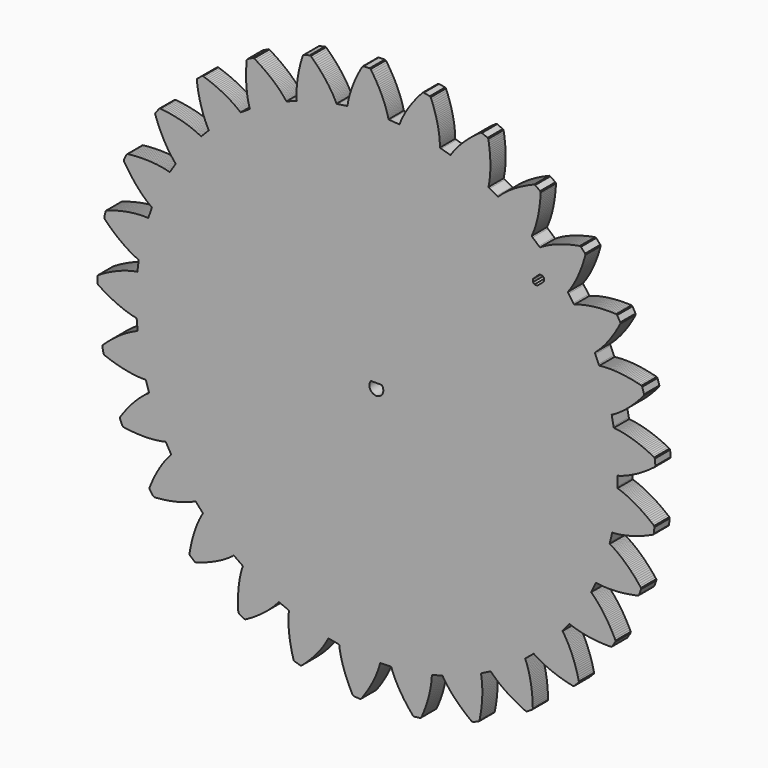
from build123d import *

# Parameters (mm, degrees)
F2_DEPTH = 7
F3_DEPTH = 7
F4_W     = 11.145629
F4_H     = 26.480744
F4_W_2   = 8.458026
F4_H_2   = 7.430415
F4_W_3   = 4.58473
F4_H_3   = 6.244713
F4_R     = 3.424511
F4_W_4   = 11.490009
F4_H_4   = 12.832992
F4_W_5   = 8.207142
F4_H_5   = 9.848576
F5_DEPTH = 7


with BuildPart() as f2:
    # F0 (on Front) → F2 (new body)
    with BuildSketch(Plane.XZ):
        Polygon((88.415724, -3.131388), (88.468302, -0.076276), (88.499544, 0.430962), (88.765482, 0.50386), (89.042596, 0.583616), (89.329362, 0.670484), (89.628574, 0.76421), (89.937184, 0.864794), (90.256716, 0.97376), (90.5859, 1.089584), (90.92626, 1.214806), (91.276272, 1.34841), (91.63619, 1.490396), (92.005506, 1.642034), (92.384474, 1.8018), (92.773094, 1.971472), (93.171366, 2.151812), (93.577766, 2.340788), (93.992802, 2.541956), (94.416982, 2.751506), (94.849544, 2.973502), (95.290488, 3.204896), (95.740068, 3.448482), (96.197522, 3.703752), (96.661834, 3.96969), (97.133258, 4.248074), (97.612556, 4.53738), (98.098966, 4.840656), (98.591218, 5.156124), (99.091344, 5.484038), (99.597058, 5.824652), (100.10836, 6.177204), (100.626266, 6.54525), (101.150268, 6.925488), (101.67808, 7.319696), (102.21148, 7.727366), (102.36134, 8.11878), (102.155854, 10.36668), (101.93843, 10.724566), (101.33899, 11.029112), (100.747678, 11.321466), (100.165002, 11.601374), (99.58893, 11.868328), (99.022256, 12.123344), (98.463202, 12.366168), (97.911768, 12.598832), (97.37024, 12.819304), (96.83811, 13.0286), (96.313346, 13.227228), (95.79925, 13.41595), (95.294806, 13.59375), (94.798744, 13.762152), (94.313604, 13.919124), (93.836846, 14.067968), (93.37101, 14.206906), (92.91635, 14.336446), (92.471088, 14.457858), (92.037256, 14.570888), (91.612822, 14.675282), (91.200834, 14.77358), (90.798244, 14.861718), (90.408354, 14.944268), (90.027862, 15.01869), (89.659816, 15.086), (89.3032, 15.146706), (88.957252, 15.202078), (88.62375, 15.251608), (88.301424, 15.29428), (87.99129, 15.332888), (87.692078, 15.365908), (87.405566, 15.393594), (87.131246, 15.418232), (87.008818, 15.9115), (86.40379, 18.90616), (86.32505, 19.40908), (86.569144, 19.53735), (86.822382, 19.675018), (87.08451, 19.821068), (87.355782, 19.977024), (87.63569, 20.140854), (87.92398, 20.31586), (88.22116, 20.500518), (88.52596, 20.696352), (88.838634, 20.901584), (89.15969, 21.117738), (89.489128, 21.345322), (89.8239, 21.583574), (90.167308, 21.833002), (90.517066, 22.093606), (90.87419, 22.366402), (91.236394, 22.650374), (91.60571, 22.948062), (91.980868, 23.256672), (92.361106, 23.577728), (92.748202, 23.9125), (93.139616, 24.258194), (93.535094, 24.619382), (93.93743, 24.993016), (94.34256, 25.378588), (94.752008, 25.778384), (95.165266, 26.191896), (95.582588, 26.620394), (96.004482, 27.061338), (96.427646, 27.517522), (96.854874, 27.987422), (97.283372, 28.471038), (97.71441, 28.969894), (98.14748, 29.482466), (98.21098, 29.897502), (97.527212, 32.048628), (97.236382, 32.35038), (96.585888, 32.519544), (95.946824, 32.677024), (95.316904, 32.824344), (94.69689, 32.962012), (94.087544, 33.090282), (93.489628, 33.20763), (92.902634, 33.314818), (92.325038, 33.414132), (91.760396, 33.50481), (91.206168, 33.586344), (90.663116, 33.659496), (90.13124, 33.724266), (89.61181, 33.782178), (89.103302, 33.831708), (88.60724, 33.87438), (88.1221, 33.910194), (87.649406, 33.93915), (87.189412, 33.962518), (86.739832, 33.979028), (86.30473, 33.98995), (85.880296, 33.995538), (85.468308, 33.997062), (85.068512, 33.992744), (84.682432, 33.983346), (84.307782, 33.9709), (83.946594, 33.95439), (83.596582, 33.933562), (83.26054, 33.910194), (82.93669, 33.882762), (82.625032, 33.853806), (82.326074, 33.820532), (82.040832, 33.787512), (81.767782, 33.751952), (81.54223, 34.206612), (80.306012, 37.001374), (80.122624, 37.475084), (80.332174, 37.652884), (80.549852, 37.841606), (80.774388, 38.041504), (81.005782, 38.251054), (81.244288, 38.472796), (81.488128, 38.705968), (81.73908, 38.949808), (81.995366, 39.206094), (82.25724, 39.473302), (82.523178, 39.75448), (82.795974, 40.04658), (83.071818, 40.35138), (83.354012, 40.668118), (83.639508, 40.99908), (83.92856, 41.34198), (84.222184, 41.69758), (84.518602, 42.066896), (84.819084, 42.448658), (85.120582, 42.845406), (85.426652, 43.2546), (85.734246, 43.67751), (86.043872, 44.114644), (86.35553, 44.56524), (86.668458, 45.029552), (86.982656, 45.507834), (87.298124, 46.001102), (87.613846, 46.50834), (87.92906, 47.03031), (88.244782, 47.565234), (88.56025, 48.11616), (88.875972, 48.68131), (89.189916, 49.261446), (89.502844, 49.855552), (89.473888, 50.273128), (88.344096, 52.22715), (87.996878, 52.460068), (87.325556, 52.484706), (86.66541, 52.50274), (86.019234, 52.510868), (85.38525, 52.512138), (84.762696, 52.505534), (84.15335, 52.491818), (83.555434, 52.47099), (82.97098, 52.443558), (82.400496, 52.410284), (81.840934, 52.370406), (81.295088, 52.32494), (80.762196, 52.27414), (80.240988, 52.218768), (79.734004, 52.158062), (79.240482, 52.093546), (78.75966, 52.024712), (78.291284, 51.951306), (77.836624, 51.874344), (77.39568, 51.794334), (76.966928, 51.711784), (76.550622, 51.62644), (76.14981, 51.538302), (75.759666, 51.44864), (75.383746, 51.356184), (75.021034, 51.263728), (74.671022, 51.168732), (74.33498, 51.073482), (74.01113, 50.97874), (73.700996, 50.881966), (73.403308, 50.787224), (73.11959, 50.691974), (72.84654, 50.596978), (72.58746, 50.503252), (72.269452, 50.89873), (70.462496, 53.3638), (70.180302, 53.787218), (70.346672, 54.006166), (70.519138, 54.23629), (70.696938, 54.47886), (70.877278, 54.733622), (71.06219, 55.001084), (71.250912, 55.280738), (71.442428, 55.572838), (71.636738, 55.878908), (71.835112, 56.197424), (72.034756, 56.527878), (72.238972, 56.871032), (72.442934, 57.229172), (72.64969, 57.598488), (72.857716, 57.983044), (73.067012, 58.380046), (73.276562, 58.79051), (73.487382, 59.214944), (73.696678, 59.653602), (73.907752, 60.105468), (74.118572, 60.56978), (74.327868, 61.049332), (74.535894, 61.5426), (74.744174, 62.049584), (74.949406, 62.570538), (75.153368, 63.105462), (75.35479, 63.655118), (75.554434, 64.218744), (75.751538, 64.79634), (75.944578, 65.387144), (76.134824, 65.992172), (76.320752, 66.61244), (76.502616, 67.2449), (76.680162, 67.894124), (76.563068, 68.29519), (75.039068, 69.960922), (74.649178, 70.11256), (73.987762, 69.994196), (73.341332, 69.868974), (72.707602, 69.737656), (72.087334, 69.602782), (71.480782, 69.462066), (70.8882, 69.31754), (70.309588, 69.168696), (69.744438, 69.017058), (69.194782, 68.861356), (68.657318, 68.70286), (68.133824, 68.5403), (67.624046, 68.376216), (67.12773, 68.210862), (66.645384, 68.042968), (66.177008, 67.873296), (65.722094, 67.701084), (65.28115, 67.530396), (64.852652, 67.356406), (64.43914, 67.184194), (64.038328, 67.010712), (63.650978, 66.8385), (63.277344, 66.666034), (62.91641, 66.493822), (62.568938, 66.324404), (62.234166, 66.154732), (61.91311, 65.988362), (61.606024, 65.822754), (61.309606, 65.660194), (61.027158, 65.498904), (60.757156, 65.341932), (60.499346, 65.1875), (60.253982, 65.037132), (60.021318, 64.889812), (59.62584, 65.208328), (57.331204, 67.225596), (56.964682, 67.578402), (57.080506, 67.8291), (57.199124, 68.090974), (57.319012, 68.366818), (57.44144, 68.65333), (57.564122, 68.955082), (57.688328, 69.267756), (57.81228, 69.595924), (57.937756, 69.93476), (58.062978, 70.28909), (58.187184, 70.654088), (58.310882, 71.03458), (58.433818, 71.427518), (58.556246, 71.833918), (58.676134, 72.25251), (58.796022, 72.68558), (58.911846, 73.132112), (59.026146, 73.590582), (59.137906, 74.0648), (59.246618, 74.55121), (59.351266, 75.050066), (59.453374, 75.564162), (59.551418, 76.09045), (59.64489, 76.629438), (59.734552, 77.183412), (59.81888, 77.749578), (59.897112, 78.328444), (59.97001, 78.92255), (60.037828, 79.527324), (60.09955, 80.147338), (60.154922, 80.778528), (60.204452, 81.424704), (60.245854, 82.08231), (60.280144, 82.753378), (60.07923, 83.1199), (58.232396, 84.419618), (57.819138, 84.484134), (57.199124, 84.225308), (56.594096, 83.964704), (56.002784, 83.70029), (55.426712, 83.435622), (54.86461, 83.16816), (54.317494, 82.899428), (53.784094, 82.629172), (53.265934, 82.359424), (52.760474, 82.089168), (52.269746, 81.819166), (51.794258, 81.54764), (51.331216, 81.278654), (50.882144, 81.008906), (50.448058, 80.741444), (50.026418, 80.475506), (49.618494, 80.210838), (49.225556, 79.947694), (48.843794, 79.687344), (48.477272, 79.429534), (48.123196, 79.173502), (47.781312, 78.92255), (47.453652, 78.673122), (47.13793, 78.427758), (46.836178, 78.186712), (46.545602, 77.951), (46.268234, 77.718082), (46.00255, 77.490752), (45.748804, 77.267232), (45.507758, 77.049808), (45.277634, 76.838734), (45.059956, 76.631978), (44.85193, 76.432334), (44.656096, 76.238024), (44.201182, 76.464084), (41.526562, 77.941094), (41.09273, 78.207032), (41.151912, 78.476018), (41.21211, 78.758466), (41.270022, 79.05336), (41.326918, 79.3607), (41.381782, 79.680232), (41.43563, 80.013734), (41.487954, 80.359682), (41.53596, 80.717822), (41.58295, 81.089932), (41.625622, 81.474488), (41.664484, 81.87149), (41.700044, 82.281954), (41.733318, 82.705118), (41.76075, 83.140728), (41.783102, 83.58853), (41.800628, 84.050302), (41.814344, 84.522996), (41.821456, 85.009406), (41.82298, 85.506738), (41.818662, 86.01804), (41.80774, 86.54001), (41.789706, 87.076458), (41.765068, 87.623574), (41.733318, 88.182882), (41.69344, 88.753366), (41.64518, 89.337566), (41.590062, 89.931672), (41.525038, 90.537716), (41.45341, 91.15646), (41.37086, 91.78511), (41.279928, 92.425952), (41.179344, 93.077716), (41.069108, 93.740656), (40.793518, 94.056124), (38.71148, 94.92709), (38.29365, 94.901944), (37.74374, 94.515102), (37.209324, 94.130546), (36.688116, 93.74599), (36.182656, 93.362958), (35.690658, 92.981196), (35.213646, 92.600704), (34.750858, 92.22326), (34.302802, 91.848356), (33.867446, 91.47523), (33.44733, 91.10566), (33.039152, 90.739138), (32.646468, 90.375156), (32.26623, 90.017016), (31.898184, 89.661416), (31.544108, 89.311404), (31.203494, 88.963932), (30.875834, 88.62408), (30.560112, 88.28753), (30.25709, 87.956822), (29.96499, 87.631702), (29.686606, 87.311916), (29.419144, 86.997718), (29.164128, 86.690378), (28.920288, 86.39015), (28.687116, 86.09678), (28.466644, 85.80976), (28.256078, 85.53163), (28.05618, 85.258834), (27.867458, 84.995182), (27.688134, 84.73788), (27.518716, 84.489722), (27.360474, 84.249946), (27.21163, 84.018552), (26.716838, 84.141234), (23.787202, 85.009406), (23.30638, 85.17603), (23.307396, 85.451366), (23.304856, 85.739656), (23.297744, 86.039884), (23.288346, 86.351288), (23.273106, 86.676662), (23.253802, 87.012958), (23.230434, 87.362716), (23.199954, 87.723904), (23.16541, 88.096268), (23.125532, 88.480316), (23.078796, 88.877318), (23.025202, 89.285496), (22.965766, 89.705612), (22.898202, 90.137158), (22.82505, 90.579372), (22.7425, 91.034032), (22.654362, 91.498344), (22.556572, 91.975356), (22.4504, 92.461766), (22.3361, 92.959352), (22.213418, 93.467606), (22.081084, 93.98729), (21.939352, 94.516372), (21.78746, 95.055106), (21.626424, 95.605016), (21.454212, 96.164578), (21.272094, 96.733538), (21.079308, 97.311134), (20.875346, 97.899652), (20.660462, 98.496044), (20.432878, 99.102596), (20.194372, 99.717022), (19.943674, 100.340084), (19.607378, 100.589512), (17.387418, 100.993118), (16.983812, 100.877294), (16.530422, 100.382756), (16.090494, 99.890504), (15.66479, 99.404094), (15.254072, 98.920478), (14.8558, 98.44245), (14.471752, 97.969756), (14.100912, 97.50138), (13.743788, 97.038084), (13.399618, 96.58063), (13.067132, 96.12851), (12.749124, 95.683502), (12.441784, 95.243828), (12.14816, 94.811266), (11.865712, 94.385562), (11.595456, 93.966462), (11.33663, 93.555744), (11.089996, 93.152138), (10.85276, 92.75539), (10.628224, 92.366516), (10.41461, 91.987802), (10.210394, 91.615438), (10.017862, 91.25171), (9.83295, 90.89611), (9.660738, 90.551432), (9.496908, 90.213866), (9.341206, 89.886206), (9.196172, 89.56896), (9.060028, 89.26035), (8.931758, 88.961646), (8.812124, 88.671832), (8.70011, 88.393702), (8.596732, 88.125224), (8.500466, 87.86716), (7.991958, 87.88113), (4.943704, 88.098808), (4.43926, 88.15799), (4.380078, 88.426722), (4.315562, 88.7079), (4.24495, 89), (4.167988, 89.301752), (4.08366, 89.61595), (3.992728, 89.941324), (3.893668, 90.276096), (3.787496, 90.623568), (3.673196, 90.980184), (3.550768, 91.346706), (3.41945, 91.724658), (3.280512, 92.1115), (3.131668, 92.508502), (2.974696, 92.915156), (2.806294, 93.330954), (2.628494, 93.756912), (2.442566, 94.192522), (2.243938, 94.63626), (2.03769, 95.08965), (1.818234, 95.551168), (1.58811, 96.021068), (1.348334, 96.49935), (1.095096, 96.98576), (0.831952, 97.480552), (0.556108, 97.982202), (0.268072, 98.490456), (-0.03241, 99.007346), (-0.345084, 99.531094), (-0.670204, 100.061446), (-1.009294, 100.59764), (-1.360576, 101.140438), (-1.725828, 101.690602), (-2.10505, 102.244322), (-2.486812, 102.41501), (-4.742332, 102.33246), (-5.111648, 102.133832), (-5.447944, 101.55268), (-5.771794, 100.977878), (-6.081928, 100.410188), (-6.38114, 99.85088), (-6.666128, 99.297922), (-6.939178, 98.752584), (-7.200798, 98.214866), (-7.450226, 97.685784), (-7.688732, 97.1661), (-7.916062, 96.653528), (-8.1312, 96.149338), (-8.336432, 95.654546), (-8.530742, 95.169406), (-8.713876, 94.692902), (-8.888882, 94.225796), (-9.052966, 93.768088), (-9.207144, 93.321556), (-9.352178, 92.883406), (-9.488322, 92.456178), (-9.616592, 92.038602), (-9.73521, 91.630678), (-9.846716, 91.2352), (-9.94857, 90.849374), (-10.04382, 90.4732), (-10.132212, 90.109472), (-10.211968, 89.756666), (-10.28639, 89.414782), (-10.352684, 89.084074), (-10.412882, 88.764288), (-10.468254, 88.457202), (-10.517784, 88.160784), (-10.560456, 87.875796), (-10.599318, 87.602746), (-11.099444, 87.50775), (-14.122806, 87.065282), (-14.62852, 87.014228), (-14.744344, 87.26518), (-14.866772, 87.524006), (-14.999106, 87.794262), (-15.139822, 88.073916), (-15.288666, 88.361952), (-15.448432, 88.65964), (-15.616326, 88.96698), (-15.794126, 89.281178), (-15.983356, 89.605028), (-16.181476, 89.937006), (-16.391026, 90.277366), (-16.610228, 90.626108), (-16.840098, 90.981708), (-17.082922, 91.345182), (-17.335144, 91.716022), (-17.599812, 92.093974), (-17.876672, 92.478022), (-18.164454, 92.86969), (-18.46519, 93.267962), (-18.77761, 93.671568), (-19.102984, 94.080762), (-19.44055, 94.495544), (-19.791832, 94.917184), (-20.156068, 95.342888), (-20.533512, 95.77291), (-20.923148, 96.208774), (-21.328532, 96.648194), (-21.745854, 97.093202), (-22.1774, 97.541258), (-22.623932, 97.9916), (-23.083926, 98.44626), (-23.558144, 98.903968), (-24.047348, 99.364216), (-24.458066, 99.44956), (-26.642212, 98.883394), (-26.960728, 98.610344), (-27.16469, 97.969756), (-27.356206, 97.34009), (-27.537816, 96.718552), (-27.709012, 96.107682), (-27.868778, 95.505702), (-28.018892, 94.914644), (-28.158084, 94.334254), (-28.288894, 93.764024), (-28.408782, 93.204462), (-28.520796, 92.654552), (-28.62265, 92.117088), (-28.717646, 91.58953), (-28.80299, 91.07391), (-28.880206, 90.568196), (-28.94904, 90.074928), (-29.011016, 89.594106), (-29.066134, 89.122682), (-29.11287, 88.663958), (-29.154272, 88.217172), (-29.19034, 87.781816), (-29.217772, 87.358906), (-29.241394, 86.948188), (-29.25892, 86.548646), (-29.271366, 86.162566), (-29.278478, 85.787916), (-29.281272, 85.425458), (-29.279748, 85.076716), (-29.27416, 84.73915), (-29.264762, 84.41403), (-29.252316, 84.101102), (-29.235806, 83.802144), (-29.217772, 83.513854), (-29.197198, 83.239788), (-29.663034, 83.038874), (-32.520788, 81.956834), (-33.004912, 81.798338), (-33.171282, 82.01754), (-33.347812, 82.245124), (-33.533994, 82.480582), (-33.730844, 82.723152), (-33.93887, 82.97258), (-34.158072, 83.228866), (-34.389466, 83.49201), (-34.630766, 83.762012), (-34.884512, 84.037856), (-35.15045, 84.31878), (-35.42731, 84.606816), (-35.716616, 84.898916), (-36.018368, 85.198128), (-36.332566, 85.50115), (-36.65921, 85.80849), (-36.9983, 86.119894), (-37.351106, 86.436632), (-37.716104, 86.756672), (-38.095072, 87.080522), (-38.487756, 87.406912), (-38.89314, 87.737874), (-39.313256, 88.071122), (-39.746072, 88.405894), (-40.192604, 88.74346), (-40.654122, 89.084074), (-41.12961, 89.424434), (-41.61856, 89.767588), (-42.121734, 90.110488), (-42.639894, 90.455166), (-43.173294, 90.80086), (-43.72041, 91.145538), (-44.282512, 91.490216), (-44.858584, 91.83464), (-45.277684, 91.829306), (-47.289618, 90.806702), (-47.540316, 90.47193), (-47.602038, 89.803402), (-47.654616, 89.14605), (-47.698812, 88.501144), (-47.734372, 87.86716), (-47.760788, 87.245622), (-47.779838, 86.636784), (-47.792284, 86.03836), (-47.796348, 85.45416), (-47.793554, 84.880882), (-47.784156, 84.321574), (-47.768916, 83.773188), (-47.747072, 83.238518), (-47.719132, 82.716294), (-47.686366, 82.206262), (-47.649028, 81.70893), (-47.604832, 81.22506), (-47.557842, 80.75389), (-47.505772, 80.296182), (-47.450654, 79.849904), (-47.389948, 79.418612), (-47.327972, 78.997988), (-47.261932, 78.591588), (-47.192844, 78.198904), (-47.121216, 77.818666), (-47.048318, 77.452144), (-46.972372, 77.096544), (-46.896426, 76.756184), (-46.818194, 76.428016), (-46.739454, 76.112802), (-46.659698, 75.809272), (-46.579688, 75.519966), (-46.499678, 75.24463), (-46.419922, 74.979962), (-46.833434, 74.683544), (-49.392484, 73.012224), (-49.830634, 72.75416), (-50.040184, 72.93196), (-50.260656, 73.116872), (-50.49332, 73.307118), (-50.738684, 73.501174), (-50.99497, 73.699802), (-51.264972, 73.90351), (-51.54615, 74.110266), (-51.83952, 74.32261), (-52.14686, 74.537494), (-52.466392, 74.755172), (-52.798878, 74.975644), (-53.144572, 75.200434), (-53.502966, 75.42624), (-53.875076, 75.655094), (-54.260648, 75.885218), (-54.65892, 76.116612), (-55.071162, 76.349784), (-55.496866, 76.583972), (-55.93654, 76.81816), (-56.390184, 77.053872), (-56.85729, 77.28806), (-57.339382, 77.523772), (-57.83392, 77.75796), (-58.342682, 77.992402), (-58.866176, 78.225066), (-59.403894, 78.45519), (-59.95482, 78.685568), (-60.521494, 78.912644), (-61.101376, 79.137434), (-61.695482, 79.35943), (-62.30432, 79.579902), (-62.927382, 79.796056), (-63.56416, 80.0084), (-63.972084, 79.91315), (-65.717826, 78.481606), (-65.890038, 78.099844), (-65.807488, 77.43411), (-65.716556, 76.780822), (-65.62156, 76.140234), (-65.519198, 75.514378), (-65.41201, 74.901222), (-65.30025, 74.301782), (-65.183156, 73.716312), (-65.061998, 73.144304), (-64.936522, 72.584996), (-64.806982, 72.040674), (-64.673378, 71.508544), (-64.536726, 70.990384), (-64.397788, 70.486194), (-64.255548, 69.995466), (-64.112292, 69.518708), (-63.966496, 69.055666), (-63.817398, 68.605324), (-63.668554, 68.16946), (-63.518694, 67.74655), (-63.367056, 67.337356), (-63.215418, 66.940354), (-63.064034, 66.558846), (-62.912142, 66.18953), (-62.760504, 65.832406), (-62.61039, 65.489252), (-62.4618, 65.160068), (-62.312956, 64.842822), (-62.166906, 64.5398), (-62.020856, 64.249224), (-61.878616, 63.97084), (-61.738154, 63.704902), (-61.600232, 63.451156), (-61.466628, 63.21138), (-61.805718, 62.832412), (-63.945922, 60.65106), (-64.317778, 60.303588), (-64.560348, 60.433128), (-64.816634, 60.565462), (-65.084096, 60.70059), (-65.36502, 60.838512), (-65.658644, 60.97745), (-65.965984, 61.118166), (-66.285516, 61.260152), (-66.617748, 61.403408), (-66.963442, 61.546918), (-67.32336, 61.691444), (-67.69547, 61.836224), (-68.079772, 61.98075), (-68.479568, 62.124006), (-68.891556, 62.267516), (-69.31726, 62.409502), (-69.756934, 62.54971), (-70.209054, 62.689156), (-70.67616, 62.825554), (-71.155712, 62.960682), (-71.64898, 63.093016), (-72.156218, 63.222556), (-72.675648, 63.347778), (-73.210318, 63.47046), (-73.757434, 63.589078), (-74.318266, 63.704902), (-74.892814, 63.814884), (-75.481332, 63.919532), (-76.082042, 64.020116), (-76.697992, 64.115366), (-77.325118, 64.205028), (-77.967307, 64.289102), (-78.621865, 64.366318), (-79.290215, 64.436422), (-79.667811, 64.255828), (-81.065116, 62.4824), (-81.151933, 62.073206), (-80.927321, 61.439222), (-80.698543, 60.822002), (-80.467048, 60.216974), (-80.234155, 59.626932), (-79.997148, 59.052384), (-79.758743, 58.490282), (-79.518967, 57.943166), (-79.276423, 57.41129), (-79.033903, 56.891606), (-78.789987, 56.387416), (-78.546071, 55.896688), (-78.302155, 55.4212), (-78.058264, 54.958412), (-77.814348, 54.508832), (-77.570432, 54.075), (-77.327887, 53.65336), (-77.086866, 53.245182), (-76.846836, 52.851228), (-76.609854, 52.47099), (-76.374396, 52.102944), (-76.141478, 51.748868), (-75.90983, 51.408508), (-75.6825, 51.080594), (-75.459234, 50.764872), (-75.237492, 50.46185), (-75.021084, 50.172544), (-74.80747, 49.89543), (-74.599444, 49.629238), (-74.395482, 49.377524), (-74.195584, 49.136224), (-74.002798, 48.9061), (-73.813822, 48.689438), (-73.630688, 48.482682), (-73.880116, 48.040722), (-75.500636, 45.449922), (-75.789942, 45.030822), (-76.05461, 45.105244), (-76.332994, 45.179666), (-76.623824, 45.254088), (-76.928116, 45.32724), (-77.24521, 45.400138), (-77.574572, 45.471766), (-77.917675, 45.542378), (-78.273199, 45.609688), (-78.641143, 45.675728), (-79.022854, 45.740752), (-79.418358, 45.801458), (-79.824885, 45.859116), (-80.246576, 45.914234), (-80.67929, 45.965288), (-81.125771, 46.012278), (-81.584648, 46.05495), (-82.057316, 46.093558), (-82.54238, 46.126578), (-83.039864, 46.155534), (-83.549744, 46.178902), (-84.071993, 46.195412), (-84.60806, 46.206334), (-85.155151, 46.211922), (-85.716008, 46.210652), (-86.287889, 46.202524), (-86.873537, 46.18576), (-87.470259, 46.162138), (-88.079326, 46.130388), (-88.699442, 46.092034), (-89.333349, 46.043774), (-89.976884, 45.987132), (-90.632839, 45.922616), (-91.301189, 45.848194), (-91.630525, 45.590384), (-92.614471, 43.55813), (-92.611702, 43.13903), (-92.254807, 42.569816), (-91.899232, 42.014572), (-91.543708, 41.47406), (-91.188184, 40.949296), (-90.834032, 40.437994), (-90.47988, 39.940662), (-90.128471, 39.458062), (-89.777062, 38.989432), (-89.429793, 38.534772), (-89.08255, 38.095352), (-88.739421, 37.668124), (-88.39769, 37.255882), (-88.060022, 36.85634), (-87.725174, 36.470768), (-87.39444, 36.098658), (-87.066476, 35.73874), (-86.744023, 35.393046), (-86.424313, 35.059544), (-86.111512, 34.738488), (-85.801454, 34.429878), (-85.49828, 34.134984), (-85.199245, 33.851012), (-84.907095, 33.579232), (-84.620456, 33.320406), (-84.339354, 33.072502), (-84.06511, 32.835266), (-83.797775, 32.609206), (-83.537323, 32.395846), (-83.283781, 32.193154), (-83.03707, 32.000368), (-82.798717, 31.81825), (-82.56717, 31.646038), (-82.34393, 31.485002), (-82.492774, 30.998338), (-83.519391, 28.119756), (-83.710958, 27.648332), (-83.986573, 27.663572), (-84.273212, 27.677288), (-84.573593, 27.68694), (-84.886419, 27.694052), (-85.211641, 27.696846), (-85.549232, 27.695322), (-85.897898, 27.689734), (-86.26033, 27.680082), (-86.635158, 27.666366), (-87.020984, 27.645538), (-87.419256, 27.6209), (-87.829923, 27.590674), (-88.25296, 27.553082), (-88.687072, 27.50914), (-89.132156, 27.45961), (-89.591058, 27.403222), (-90.059586, 27.339722), (-90.54051, 27.268094), (-91.032457, 27.188084), (-91.535453, 27.101216), (-92.049448, 27.006474), (-92.575863, 26.901572), (-93.111904, 26.788288), (-93.657623, 26.667384), (-94.215712, 26.53505), (-94.783478, 26.394334), (-95.360871, 26.242696), (-95.949313, 26.081406), (-96.547381, 25.909194), (-97.155102, 25.727584), (-97.772474, 25.533274), (-98.399448, 25.327788), (-99.034752, 25.11138), (-99.302087, 24.7888), (-99.824362, 22.593732), (-99.732033, 22.185808), (-99.262108, 21.704732), (-98.794951, 21.240674), (-98.331934, 20.788554), (-97.871661, 20.351674), (-97.415553, 19.92851), (-96.963535, 19.519316), (-96.515682, 19.123838), (-96.073341, 18.74233), (-95.635115, 18.37276), (-95.2024, 18.01716), (-94.773852, 17.674006), (-94.352186, 17.344822), (-93.936007, 17.02783), (-93.526712, 16.723284), (-93.122953, 16.42966), (-92.726078, 16.150006), (-92.336087, 15.881274), (-91.953004, 15.623718), (-91.578176, 15.378354), (-91.210232, 15.144166), (-90.849196, 14.91963), (-90.497787, 14.707032), (-90.153287, 14.504594), (-89.817042, 14.313078), (-89.489077, 14.13096), (-89.170764, 13.959002), (-88.860706, 13.796188), (-88.560275, 13.643534), (-88.269521, 13.500024), (-87.986997, 13.36515), (-87.715547, 13.23815), (-87.452327, 13.119532), (-87.20013, 13.00955), (-87.24011, 12.502312), (-87.623193, 9.470822), (-87.71001, 8.970696), (-87.981511, 8.9265), (-88.265381, 8.876716), (-88.560275, 8.821852), (-88.86759, 8.761146), (-89.185877, 8.694852), (-89.515239, 8.62043), (-89.85565, 8.540674), (-90.207033, 8.453806), (-90.56944, 8.358556), (-90.941525, 8.255178), (-91.325979, 8.145196), (-91.720111, 8.026578), (-92.125267, 7.899578), (-92.540023, 7.764704), (-92.964483, 7.619924), (-93.399915, 7.465746), (-93.843678, 7.302932), (-94.298414, 7.12945), (-94.761431, 6.946062), (-95.234125, 6.753022), (-95.716446, 6.54906), (-96.207021, 6.33443), (-96.705852, 6.10964), (-97.212963, 5.872658), (-97.729751, 5.6245), (-98.253398, 5.36415), (-98.785324, 5.092624), (-99.325506, 4.808906), (-99.872597, 4.512488), (-100.426571, 4.202608), (-100.987428, 3.881552), (-101.555169, 3.54678), (-102.129819, 3.197784), (-102.32136, 2.825928), (-102.361314, 0.56863), (-102.182168, 0.189662), (-101.619939, -0.17686), (-101.064593, -0.53119), (-100.51476, -0.87282), (-99.971809, -1.200734), (-99.434371, -1.516456), (-98.905187, -1.817954), (-98.382912, -2.109038), (-97.868918, -2.385898), (-97.361807, -2.65209), (-96.861554, -2.906598), (-96.370978, -3.149422), (-95.887286, -3.380816), (-95.413271, -3.601288), (-94.947486, -3.810838), (-94.491353, -4.009212), (-94.0435, -4.198188), (-93.603902, -4.377004), (-93.175303, -4.545406), (-92.755009, -4.705172), (-92.345764, -4.85554), (-91.94612, -4.995748), (-91.556129, -5.128082), (-91.175815, -5.251018), (-90.806473, -5.366588), (-90.448206, -5.474284), (-90.09954, -5.573344), (-89.761898, -5.6658), (-89.43533, -5.74962), (-89.119735, -5.82836), (-88.815215, -5.899988), (-88.523064, -5.964504), (-88.24054, -6.02394), (-87.970462, -6.076518), (-87.901577, -6.580454), (-87.623193, -9.62312), (-87.599774, -10.131882), (-87.856085, -10.232466), (-88.12342, -10.341432), (-88.399061, -10.458526), (-88.685675, -10.583748), (-88.98194, -10.717606), (-89.287883, -10.860862), (-89.603428, -11.0125), (-89.927278, -11.17379), (-90.26078, -11.342954), (-90.603908, -11.523548), (-90.953946, -11.713794), (-91.31361, -11.915216), (-91.681554, -12.125782), (-92.057753, -12.347778), (-92.442208, -12.579172), (-92.833571, -12.823266), (-93.231818, -13.078028), (-93.638345, -13.34549), (-94.051755, -13.62362), (-94.472049, -13.914704), (-94.899226, -14.216456), (-95.33194, -14.532178), (-95.771538, -14.859838), (-96.215276, -15.200198), (-96.665898, -15.553004), (-97.122005, -15.919526), (-97.58365, -16.300018), (-98.049436, -16.692956), (-98.519361, -17.099356), (-98.994773, -17.520996), (-99.474325, -17.955082), (-99.956645, -18.404154), (-100.443106, -18.86872), (-100.549202, -19.272326), (-100.102721, -21.485428), (-99.846409, -21.81766), (-99.219385, -22.056166), (-98.599269, -22.281972), (-97.988831, -22.49711), (-97.387969, -22.701072), (-96.796809, -22.892588), (-96.215276, -23.074198), (-95.641998, -23.245394), (-95.079769, -23.406684), (-94.527192, -23.556798), (-93.985613, -23.69726), (-93.453687, -23.829594), (-92.931412, -23.952276), (-92.421532, -24.065306), (-91.921279, -24.169954), (-91.432101, -24.26495), (-90.953946, -24.353088), (-90.488135, -24.433098), (-90.032027, -24.50625), (-89.588315, -24.57102), (-89.155575, -24.630456), (-88.735281, -24.681256), (-88.325985, -24.726722), (-87.927739, -24.765076), (-87.541913, -24.79835), (-87.168457, -24.825782), (-86.807396, -24.848134), (-86.458781, -24.866168), (-86.121138, -24.87836), (-85.795942, -24.886488), (-85.48309, -24.890806), (-85.18271, -24.892076), (-84.896071, -24.889282), (-84.620456, -24.88217), (-84.444053, -25.359182), (-83.519391, -28.272562), (-83.387108, -28.762782), (-83.615886, -28.917468), (-83.851496, -29.081298), (-84.096809, -29.255034), (-84.350352, -29.438168), (-84.610829, -29.632478), (-84.878164, -29.83771), (-85.153754, -30.054372), (-85.436253, -30.280178), (-85.724263, -30.518684), (-86.020554, -30.768112), (-86.322332, -31.029732), (-86.630993, -31.302782), (-86.943844, -31.58777), (-87.263529, -31.885712), (-87.58875, -32.194322), (-87.919484, -32.516648), (-88.254332, -32.85142), (-88.59332, -33.200416), (-88.936474, -33.559826), (-89.285115, -33.934984), (-89.636524, -34.321826), (-89.992048, -34.722892), (-90.35034, -35.136404), (-90.711401, -35.565156), (-91.07518, -36.00737), (-91.441753, -36.463554), (-91.811043, -36.933454), (-92.181756, -37.41707), (-92.553815, -37.915926), (-92.9259, -38.428498), (-93.300728, -38.95631), (-93.675556, -39.499362), (-94.050383, -40.055876), (-94.06829, -40.474976), (-93.156024, -42.539234), (-92.834943, -42.807966), (-92.170733, -42.905756), (-91.517546, -42.993894), (-90.875383, -43.072634), (-90.244219, -43.142738), (-89.625475, -43.203444), (-89.01778, -43.255768), (-88.421108, -43.29971), (-87.838178, -43.335778), (-87.266272, -43.36321), (-86.70544, -43.385562), (-86.158349, -43.399278), (-85.622308, -43.405882), (-85.100008, -43.407406), (-84.588782, -43.401818), (-84.091272, -43.390896), (-83.604837, -43.372862), (-83.132193, -43.351018), (-82.67192, -43.324856), (-82.224067, -43.293106), (-81.788584, -43.257038), (-81.366919, -43.21589), (-80.957623, -43.173218), (-80.560748, -43.124704), (-80.177665, -43.075428), (-79.806978, -43.021326), (-79.448685, -42.964938), (-79.10416, -42.907026), (-78.772055, -42.847844), (-78.45237, -42.785868), (-78.146453, -42.722622), (-77.852905, -42.659122), (-77.573175, -42.594098), (-77.30584, -42.528312), (-77.031494, -42.95681), (-75.500636, -45.602728), (-75.266448, -46.05307), (-75.45644, -46.253222), (-75.652274, -46.463788), (-75.854712, -46.685784), (-76.061468, -46.919972), (-76.275082, -47.165082), (-76.49276, -47.422892), (-76.714756, -47.693148), (-76.942086, -47.975342), (-77.172134, -48.27049), (-77.407795, -48.577576), (-77.6462, -48.897616), (-77.888744, -49.231118), (-78.134032, -49.576812), (-78.382063, -49.935206), (-78.632888, -50.30884), (-78.886431, -50.692888), (-79.141396, -51.092684), (-79.397682, -51.504672), (-79.655391, -51.9319), (-79.914471, -52.37132), (-80.174922, -52.82471), (-80.435348, -53.293594), (-80.697172, -53.774416), (-80.957623, -54.270478), (-81.218075, -54.780256), (-81.478552, -55.304004), (-81.737632, -55.842738), (-81.995289, -56.395696), (-82.251626, -56.963132), (-82.505169, -57.543268), (-82.757366, -58.140168), (-83.006768, -58.750276), (-83.253428, -59.374862), (-83.180403, -59.78685), (-81.846445, -61.607268), (-81.474412, -61.801578), (-80.804664, -61.753318), (-80.147338, -61.69947), (-79.503803, -61.637494), (-78.87269, -61.569676), (-78.255317, -61.496778), (-77.65034, -61.417022), (-77.05918, -61.331678), (-76.480314, -61.242016), (-75.916688, -61.146766), (-75.365508, -61.046182), (-74.826774, -60.942804), (-74.303026, -60.834092), (-73.791724, -60.722332), (-73.294392, -60.608032), (-72.809252, -60.489668), (-72.339352, -60.369526), (-71.881898, -60.245828), (-71.43816, -60.120098), (-71.008138, -59.993606), (-70.590562, -59.864066), (-70.186956, -59.734272), (-69.796812, -59.603462), (-69.419368, -59.472398), (-69.055386, -59.340318), (-68.705374, -59.207984), (-68.367808, -59.07692), (-68.043958, -58.94611), (-67.732554, -58.81657), (-67.433596, -58.687284), (-67.148354, -58.560284), (-66.875304, -58.435062), (-66.614954, -58.310856), (-66.36832, -58.189444), (-66.008656, -58.549362), (-63.945922, -60.803866), (-63.619278, -61.193756), (-63.762534, -61.429468), (-63.908584, -61.677372), (-64.057428, -61.937722), (-64.21059, -62.210772), (-64.364768, -62.497284), (-64.52174, -62.794972), (-64.68049, -63.106376), (-64.841526, -63.43175), (-65.00434, -63.769316), (-65.167916, -64.119328), (-65.332, -64.483056), (-65.497354, -64.860754), (-65.662962, -65.250644), (-65.826792, -65.654504), (-65.991892, -66.071826), (-66.155976, -66.503372), (-66.32006, -66.948634), (-66.48135, -67.405834), (-66.64264, -67.877258), (-66.800882, -68.363668), (-66.958362, -68.862524), (-67.111016, -69.375096), (-67.262654, -69.901638), (-67.411498, -70.441642), (-67.556278, -70.995616), (-67.69674, -71.56356), (-67.834662, -72.144966), (-67.966742, -72.740342), (-68.095012, -73.349434), (-68.218964, -73.972242), (-68.337582, -74.607496), (-68.449088, -75.25799), (-68.556784, -75.92093), (-68.395494, -76.308026), (-66.701822, -77.797711), (-66.296692, -77.907947), (-65.653056, -77.717777), (-65.02339, -77.523492), (-64.40744, -77.325042), (-63.805206, -77.12235), (-63.218212, -76.918642), (-62.644934, -76.710362), (-62.085372, -76.499542), (-61.54105, -76.287452), (-61.00892, -76.073838), (-60.492284, -75.85743), (-59.989618, -75.639752), (-59.50016, -75.422074), (-59.024672, -75.202872), (-58.564678, -74.98367), (-58.116622, -74.764722), (-57.68279, -74.54552), (-57.262166, -74.326572), (-56.855766, -74.10864), (-56.463082, -73.892486), (-56.08386, -73.676078), (-55.717338, -73.462464), (-55.364532, -73.251644), (-55.024172, -73.042094), (-54.697782, -72.835338), (-54.383584, -72.631376), (-54.081832, -72.430208), (-53.793796, -72.231834), (-53.516682, -72.038794), (-53.253538, -71.848802), (-53.00284, -71.66262), (-52.76281, -71.480756), (-52.535734, -71.30448), (-52.320342, -71.133538), (-51.892098, -71.406334), (-49.392484, -73.164776), (-48.989894, -73.47618), (-49.078032, -73.73653), (-49.167694, -74.01085), (-49.257356, -74.297616), (-49.348288, -74.596574), (-49.43795, -74.909248), (-49.527104, -75.234622), (-49.615242, -75.572188), (-49.702618, -75.92347), (-49.789232, -76.288722), (-49.873306, -76.66642), (-49.954332, -77.05758), (-50.035866, -77.461491), (-50.113082, -77.877645), (-50.187504, -78.30759), (-50.257862, -78.751303), (-50.326696, -79.207462), (-50.389942, -79.675965), (-50.449378, -80.158285), (-50.505766, -80.654398), (-50.55555, -81.161509), (-50.600762, -81.683784), (-50.642418, -82.217057), (-50.676454, -82.764147), (-50.70414, -83.323659), (-50.727762, -83.89554), (-50.742748, -84.481187), (-50.7524, -85.077884), (-50.75367, -85.688373), (-50.748082, -86.30986), (-50.734366, -86.943768), (-50.713792, -87.591417), (-50.683566, -88.248744), (-50.644704, -88.919837), (-50.405182, -89.262991), (-48.430332, -90.355801), (-48.01174, -90.375054), (-47.423222, -90.05123), (-46.849944, -89.726008), (-46.291906, -89.399415), (-45.747584, -89.072822), (-45.216978, -88.746254), (-44.702882, -88.421007), (-44.201232, -88.095785), (-43.714822, -87.770564), (-43.242128, -87.446764), (-42.78315, -87.125658), (-42.339412, -86.804551), (-41.90812, -86.486238), (-41.492068, -86.170694), (-41.088462, -85.857867), (-40.698318, -85.546413), (-40.322144, -85.239098), (-39.958162, -84.935974), (-39.60815, -84.635543), (-39.270584, -84.339278), (-38.946734, -84.047101), (-38.635076, -83.760462), (-38.336372, -83.476617), (-38.048082, -83.19963), (-37.774016, -82.926784), (-37.510872, -82.66082), (-37.25992, -82.398997), (-37.020144, -82.144032), (-36.793068, -81.896001), (-36.57666, -81.653482), (-36.369904, -81.41782), (-36.175594, -81.189068), (-35.990682, -80.968596), (-35.81847, -80.75361), (-35.340696, -80.928616), (-32.520788, -82.109615), (-32.062318, -82.327318), (-32.092544, -82.60019), (-32.1215, -82.886804), (-32.147662, -83.185838), (-32.170776, -83.497268), (-32.191604, -83.822489), (-32.208368, -84.158734), (-32.222084, -84.508746), (-32.231482, -84.871179), (-32.23707, -85.244635), (-32.238594, -85.631858), (-32.234276, -86.031476), (-32.225894, -86.443515), (-32.212178, -86.866578), (-32.193128, -87.302035), (-32.166966, -87.75126), (-32.135216, -88.211533), (-32.096354, -88.682855), (-32.050888, -89.166548), (-31.998818, -89.66261), (-31.939382, -90.169746), (-31.872072, -90.687906), (-31.796126, -91.218436), (-31.711798, -91.759989), (-31.61985, -92.312592), (-31.519266, -92.876218), (-31.408776, -93.450842), (-31.288888, -94.03649), (-31.159348, -94.631815), (-31.02041, -95.238164), (-30.871566, -95.855536), (-30.710276, -96.481138), (-30.540604, -97.119186), (-30.358994, -97.765489), (-30.050384, -98.049359), (-27.886812, -98.690176), (-27.47457, -98.619869), (-26.968856, -98.177502), (-26.479398, -97.736533), (-26.002894, -97.296935), (-25.542646, -96.861503), (-25.094844, -96.428789), (-24.662028, -96.00024), (-24.243182, -95.574409), (-23.836528, -95.152718), (-23.445368, -94.735167), (-23.0664, -94.321757), (-22.700894, -93.913884), (-22.349612, -93.510125), (-22.009506, -93.111879), (-21.684132, -92.719119), (-21.369934, -92.333242), (-21.068182, -91.951556), (-20.778622, -91.576728), (-20.500238, -91.208784), (-20.23557, -90.846377), (-19.981062, -90.492224), (-19.738238, -90.143559), (-19.506844, -89.803173), (-19.286372, -89.471068), (-19.076822, -89.145872), (-18.877178, -88.828905), (-18.687948, -88.520219), (-18.509132, -88.219839), (-18.33946, -87.927663), (-18.179694, -87.643818), (-18.029326, -87.369574), (-17.889118, -87.104982), (-17.756784, -86.848645), (-17.633848, -86.603357), (-17.129912, -86.670896), (-14.122806, -87.217987), (-13.626744, -87.330966), (-13.597788, -87.60521), (-13.564768, -87.890477), (-13.52616, -88.188114), (-13.482218, -88.498172), (-13.432434, -88.819279), (-13.375792, -89.152755), (-13.313816, -89.495884), (-13.246506, -89.852805), (-13.17056, -90.219327), (-13.089026, -90.596923), (-12.999618, -90.986915), (-12.903098, -91.386533), (-12.79845, -91.7972), (-12.68542, -92.218891), (-12.562738, -92.651605), (-12.433198, -93.093946), (-12.294006, -93.545939), (-12.14694, -94.008956), (-11.98819, -94.481625), (-11.821566, -94.963945), (-11.643766, -95.455892), (-11.45606, -95.957517), (-11.25794, -96.468768), (-11.04839, -96.988249), (-10.829188, -97.517433), (-10.597794, -98.054897), (-10.35497, -98.600565), (-10.100462, -99.154564), (-9.83427, -99.716793), (-9.55614, -100.287303), (-9.26531, -100.864695), (-8.96051, -101.450369), (-8.645042, -102.042925), (-8.282584, -102.253771), (-6.032144, -102.414984), (-5.643778, -102.257885), (-5.246776, -101.716332), (-4.86222, -101.180265), (-4.491634, -100.64971), (-4.135018, -100.124692), (-3.79161, -99.606557), (-3.460648, -99.093909), (-3.14264, -98.58817), (-2.838094, -98.089314), (-2.54447, -97.597366), (-2.263292, -97.112303), (-1.99456, -96.635494), (-1.737004, -96.165594), (-1.49164, -95.703949), (-1.257198, -95.250584), (-1.03444, -94.804078), (-0.820572, -94.367223), (-0.619404, -93.938674), (-0.426618, -93.519752), (-0.24577, -93.109085), (-0.073812, -92.70807), (0.089002, -92.316706), (0.24191, -91.934995), (0.385166, -91.561539), (0.520294, -91.199132), (0.64704, -90.846377), (0.765658, -90.504594), (0.875894, -90.172489), (0.978002, -89.851433), (1.072744, -89.540004), (1.160882, -89.239573), (1.241146, -88.951562), (1.315568, -88.673178), (1.382878, -88.405843), (1.890116, -88.364492), (4.943704, -88.251513), (5.452212, -88.255627), (5.54035, -88.517476), (5.63433, -88.788926), (5.736184, -89.071425), (5.846166, -89.363601), (5.96326, -89.66675), (6.08899, -89.979551), (6.224118, -90.303401), (6.36585, -90.635506), (6.519012, -90.97866), (6.680302, -91.330069), (6.85099, -91.691079), (7.031584, -92.06042), (7.2231, -92.439363), (7.422744, -92.826611), (7.635088, -93.222115), (7.857084, -93.627245), (8.090002, -94.039284), (8.333588, -94.459577), (8.590128, -94.886755), (8.85759, -95.322238), (9.135974, -95.764579), (9.428074, -96.213803), (9.731096, -96.669962), (10.046818, -97.132978), (10.374478, -97.601507), (10.716362, -98.076944), (11.070438, -98.557867), (11.438484, -99.044328), (11.818722, -99.536275), (12.2142, -100.033734), (12.622124, -100.535334), (13.044018, -101.041073), (13.480644, -101.55235), (13.878916, -101.680493), (16.112846, -101.353899), (16.457524, -101.116867), (16.730066, -100.502263), (16.989146, -99.897311), (17.23705, -99.299243), (17.472762, -98.709429), (17.697552, -98.129293), (17.909896, -97.558784), (18.112334, -96.995183), (18.30258, -96.442581), (18.483174, -95.89963), (18.653862, -95.36496), (18.813628, -94.841289), (18.963996, -94.327294), (19.104458, -93.824298), (19.235522, -93.329557), (19.35795, -92.847287), (19.47225, -92.374593), (19.577152, -91.912948), (19.673672, -91.462352), (19.763334, -91.022754), (19.84436, -90.594155), (19.918782, -90.176629), (19.986346, -89.770102), (20.047052, -89.374599), (20.1009, -88.991542), (20.148906, -88.620829), (20.190562, -88.261165), (20.227646, -87.912524), (20.257872, -87.577676), (20.284034, -87.252429), (20.304862, -86.941), (20.321372, -86.641965), (20.333818, -86.353955), (20.343216, -86.078365), (20.82988, -85.928149), (23.787202, -85.161958), (24.284534, -85.057209), (24.426266, -85.29287), (24.576634, -85.538158), (24.7364, -85.793097), (24.907596, -86.054895), (25.086412, -86.326396), (25.276912, -86.604754), (25.47808, -86.891368), (25.688646, -87.184916), (25.910388, -87.486693), (26.14483, -87.795379), (26.388924, -88.110974), (26.644956, -88.433402), (26.912418, -88.762764), (27.192072, -89.097612), (27.484172, -89.439369), (27.787702, -89.785292), (28.10444, -90.138047), (28.432354, -90.496339), (28.774238, -90.858746), (29.129584, -91.226691), (29.496106, -91.598775), (29.877868, -91.974975), (30.27233, -92.355289), (30.68, -92.739794), (31.10164, -93.126992), (31.53725, -93.517009), (31.986322, -93.911115), (32.449618, -94.306619), (32.927646, -94.704865), (33.419644, -95.10588), (33.926628, -95.508242), (34.447582, -95.912051), (34.983522, -96.317181), (35.401352, -96.357135), (37.512346, -95.557848), (37.797588, -95.251956), (37.931446, -94.593258), (38.053874, -93.945558), (38.168174, -93.308907), (38.271552, -92.683279), (38.365278, -92.067304), (38.450622, -91.463724), (38.526568, -90.871167), (38.594132, -90.291031), (38.65306, -89.720522), (38.705638, -89.162382), (38.74831, -88.616714), (38.785394, -88.081993), (38.814604, -87.559744), (38.836702, -87.049889), (38.851688, -86.55238), (38.86134, -86.065944), (38.865658, -85.591879), (38.86261, -85.131656), (38.856006, -84.682381), (38.84356, -84.246923), (38.82578, -83.822489), (38.804952, -83.411847), (38.77879, -83.013601), (38.749834, -82.627724), (38.71529, -82.254293), (38.67973, -81.893258), (38.639344, -81.545989), (38.598196, -81.211115), (38.554, -80.890034), (38.50701, -80.579976), (38.459004, -80.28371), (38.409474, -79.999815), (38.358674, -79.729736), (38.802158, -79.478911), (41.526562, -78.093976), (41.989604, -77.884528), (42.17858, -78.085721), (42.378224, -78.292427), (42.589044, -78.506015), (42.81104, -78.725141), (43.045228, -78.951125), (43.290338, -79.182646), (43.547894, -79.419679), (43.81815, -79.660801), (44.099328, -79.907511), (44.394222, -80.159657), (44.700038, -80.414622), (45.019824, -80.675048), (45.352056, -80.938243), (45.69775, -81.205629), (46.054874, -81.475707), (46.426984, -81.749925), (46.811032, -82.025541), (47.209558, -82.305271), (47.621546, -82.586398), (48.04598, -82.868897), (48.485654, -83.152767), (48.939044, -83.438035), (49.40488, -83.724674), (49.885702, -84.012659), (50.382018, -84.30067), (50.890272, -84.58868), (51.413766, -84.876691), (51.951484, -85.16333), (52.503934, -85.449969), (53.070354, -85.735211), (53.65176, -86.019107), (54.24866, -86.301605), (54.859022, -86.58131), (55.273804, -86.530332), (57.16458, -85.296985), (57.378194, -84.935974), (57.367018, -84.26483), (57.347968, -83.606132), (57.321552, -82.959854), (57.288532, -82.325947), (57.2484, -81.704434), (57.201918, -81.096764), (57.147816, -80.501439), (57.090158, -79.919881), (57.025388, -79.350743), (56.95503, -78.795397), (56.880608, -78.252472), (56.800852, -77.721943), (56.716778, -77.206424), (56.62991, -76.703504), (56.537454, -76.21303), (56.442458, -75.736272), (56.344668, -75.27323), (56.24256, -74.823904), (56.139182, -74.387024), (56.03301, -73.964114), (55.925568, -73.553396), (55.815332, -73.156394), (55.705096, -72.773362), (55.59359, -72.402776), (55.48056, -72.045652), (55.36753, -71.701228), (55.2545, -71.37052), (55.141724, -71.052258), (55.02844, -70.747712), (54.916934, -70.455612), (54.806952, -70.175704), (54.696462, -69.909766), (54.588766, -69.656274), (54.967988, -69.317184), (57.331204, -67.378148), (57.737858, -67.073856), (57.965188, -67.229304), (58.20471, -67.389578), (58.456932, -67.551884), (58.7216, -67.718762), (58.99846, -67.889704), (59.288274, -68.061916), (59.591296, -68.238192), (59.905494, -68.415992), (60.234678, -68.596586), (60.575038, -68.77845), (60.929368, -68.963108), (61.29716, -69.147766), (61.678922, -69.333694), (62.07313, -69.521146), (62.4808, -69.707328), (62.902694, -69.89478), (63.33805, -70.081978), (63.786106, -70.26943), (64.248894, -70.454088), (64.724382, -70.638746), (65.214856, -70.823404), (65.71803, -71.003998), (66.23619, -71.184592), (66.768066, -71.360868), (67.312388, -71.535874), (67.87195, -71.708086), (68.445228, -71.876234), (69.032222, -72.041588), (69.632932, -72.201608), (70.247612, -72.35858), (70.877278, -72.511488), (71.519644, -72.659062), (72.175472, -72.801048), (72.57095, -72.661856), (74.151338, -71.050734), (74.282656, -70.652716), (74.1267, -69.999428), (73.966934, -69.359856), (73.80285, -68.734254), (73.633432, -68.122622), (73.460966, -67.524452), (73.28469, -66.941522), (73.105874, -66.371038), (72.922232, -65.815794), (72.737828, -65.274012), (72.549106, -64.7462), (72.36013, -64.232104), (72.16836, -63.731978), (71.975828, -63.245568), (71.781518, -62.773128), (71.587208, -62.31415), (71.391374, -61.868888), (71.195794, -61.437342), (70.99996, -61.02002), (70.80565, -60.61616), (70.609816, -60.225), (70.417284, -59.848826), (70.224244, -59.48332), (70.034252, -59.133562), (69.845022, -58.795742), (69.657824, -58.470622), (69.47469, -58.159472), (69.292572, -57.86026), (69.113502, -57.573494), (68.938496, -57.300698), (68.766284, -57.039078), (68.597882, -56.79092), (68.434052, -56.553938), (68.274032, -56.329148), (68.57045, -55.91589), (70.462496, -53.516606), (70.794728, -53.131034), (71.049744, -53.234412), (71.318222, -53.33779), (71.5994, -53.443454), (71.894294, -53.549626), (72.20011, -53.655798), (72.521166, -53.76197), (72.853652, -53.869412), (73.200616, -53.975584), (73.55901, -54.081756), (73.93239, -54.185134), (74.318216, -54.288512), (74.716488, -54.390366), (75.12873, -54.49095), (75.554434, -54.58874), (75.992584, -54.68399), (76.44445, -54.776192), (76.91054, -54.864584), (77.388568, -54.951198), (77.879296, -55.032478), (78.384756, -55.111218), (78.901646, -55.184116), (79.433522, -55.25422), (79.977844, -55.31772), (80.534612, -55.377156), (81.105096, -55.43075), (81.68828, -55.47774), (82.283402, -55.518888), (82.892494, -55.553432), (83.514032, -55.582388), (84.147762, -55.602962), (84.795462, -55.616678), (85.454338, -55.622266), (86.125406, -55.620996), (86.48253, -55.40027), (87.678362, -53.486126), (87.721034, -53.070328), (87.428934, -52.4653), (87.13531, -51.873988), (86.840416, -51.29944), (86.544252, -50.737084), (86.246818, -50.191746), (85.94913, -49.659616), (85.651188, -49.141456), (85.3535, -48.637012), (85.056066, -48.148062), (84.759902, -47.67232), (84.463484, -47.212072), (84.16859, -46.76427), (83.87649, -46.331454), (83.58566, -45.911338), (83.2961, -45.504684), (83.009588, -45.11327), (82.725616, -44.733032), (82.444438, -44.368034), (82.167578, -44.015228), (81.893512, -43.674868), (81.623256, -43.34797), (81.357318, -43.034026), (81.095444, -42.73202), (80.839412, -42.442968), (80.58719, -42.16687), (80.339032, -41.90144), (80.097732, -41.649218), (79.862274, -41.407918), (79.63215, -41.177794), (79.40736, -40.960116), (79.189682, -40.75336), (78.978862, -40.557526), (78.7749, -40.373122), (78.976068, -39.905762), (80.306012, -37.153926), (80.548328, -36.707394), (80.819854, -36.75286), (81.105096, -36.797056), (81.40126, -36.838204), (81.711394, -36.879606), (82.033974, -36.916944), (82.370016, -36.952504), (82.719012, -36.985778), (83.079946, -37.014734), (83.45358, -37.040896), (83.839152, -37.062994), (84.238694, -37.081028), (84.649412, -37.094744), (85.073846, -37.102872), (85.509456, -37.10719), (85.958528, -37.105666), (86.4203, -37.098554), (86.892994, -37.086362), (87.379404, -37.066804), (87.87699, -37.040896), (88.386768, -37.008892), (88.907722, -36.969268), (89.440868, -36.923548), (89.98646, -36.868684), (90.543228, -36.806454), (91.111172, -36.73635), (91.691054, -36.65634), (92.282366, -36.569472), (92.8846, -36.471682), (93.497756, -36.36551), (94.120818, -36.24994), (94.756072, -36.124718), (95.400978, -35.988066), (96.056806, -35.842016), (96.357288, -35.549916), (97.1137, -33.423428), (97.067218, -33.0089), (96.650912, -32.479818), (96.2374, -31.966738), (95.825412, -31.467882), (95.414694, -30.984266), (95.007024, -30.514366), (94.60164, -30.058182), (94.200828, -29.615968), (93.801032, -29.18874), (93.405808, -28.775482), (93.012616, -28.374416), (92.625774, -27.987066), (92.241218, -27.61394), (91.86225, -27.254022), (91.487346, -26.906804), (91.11803, -26.571778), (90.754302, -26.250722), (90.395654, -25.940588), (90.043102, -25.644678), (89.695884, -25.359182), (89.355524, -25.08664), (89.022022, -24.824512), (88.694108, -24.575084), (88.373052, -24.336832), (88.060124, -24.109248), (87.754308, -23.894618), (87.456366, -23.687862), (87.16579, -23.493298), (86.883088, -23.30864), (86.609022, -23.133634), (86.344608, -22.969804), (86.087052, -22.813848), (85.83864, -22.667798), (85.599118, -22.5314), (85.695384, -22.03102), (86.40379, -19.058966), (86.542728, -18.569762), (86.818572, -18.555792), (87.106608, -18.538012), (87.405566, -18.516168), (87.717224, -18.488228), (88.041074, -18.455462), (88.375846, -18.41787), (88.72281, -18.375198), (89.081458, -18.326938), (89.452044, -18.27182), (89.833806, -18.209844), (90.22776, -18.142534), (90.631366, -18.066588), (91.047672, -17.984038), (91.4749, -17.894376), (91.91305, -17.796332), (92.36263, -17.690668), (92.8211, -17.57586), (93.291, -17.453432), (93.77233, -17.321098), (94.26255, -17.180382), (94.7642, -17.030522), (95.275502, -16.869232), (95.796456, -16.69956), (96.327062, -16.518966), (96.865796, -16.32745), (97.415706, -16.126282), (97.973744, -15.912922), (98.53991, -15.689656), (99.115982, -15.453944), (99.700182, -15.20604), (100.293018, -14.946706), (100.893728, -14.675434), (101.503074, -14.391462), (101.734468, -14.04272), (102.016916, -11.803456), (101.880518, -11.406454), (101.360834, -10.98075), (100.846738, -10.568762), (100.33696, -10.17049), (99.832516, -9.784918), (99.33366, -9.414078), (98.839122, -9.055684), (98.351188, -8.71126), (97.870366, -8.379028), (97.394878, -8.059242), (96.926502, -7.753426), (96.46346, -7.458532), (96.0088, -7.176084), (95.560744, -6.905828), (95.121324, -6.646748), (94.688508, -6.400368), (94.26255, -6.164656), (93.846752, -5.938596), (93.43705, -5.724982), (93.037762, -5.52102), (92.646094, -5.328234), (92.264332, -5.144846), (91.891206, -4.97111), (91.527224, -4.807026), (91.171878, -4.652848), (90.8272, -4.506798), (90.491158, -4.3704), (90.165784, -4.242384), (89.850062, -4.123766), (89.545516, -4.012006), (89.250622, -3.907104), (88.965634, -3.810838), (88.692584, -3.7227), (88.42944, -3.64015), align=None)
        Polygon((65.949424, -44.843268), (66.389352, -44.193028), (67.261334, -45.737856), (68.111472, -47.304528), (66.346172, -47.053576), (64.595096, -46.772398), (65.05255, -46.134604), (65.501622, -45.492238), align=None, mode=Mode.SUBTRACT)
        Polygon((69.16735, -41.276854), (69.56807, -40.592228), (71.626832, -41.793744), (71.21205, -42.496562), (70.78914, -43.197856), (70.360388, -43.891022), (69.254218, -44.15569), (68.584166, -43.729732), (68.339056, -42.63169), (68.756632, -41.957828), align=None, mode=Mode.SUBTRACT)
        Polygon((74.69566, -36.02261), (71.83679, -34.643552), (72.175472, -33.934984), (72.50618, -33.22099), (72.828506, -32.505726), (73.466808, -33.661934), (74.09114, -34.834398), align=None, mode=Mode.SUBTRACT)
        Polygon((78.072082, 3.3893), (78.034744, 4.156888), (82.79064, 4.415968), (82.828994, 3.601644), (82.862268, 2.784272), (82.09468, 1.94785), (78.91968, 1.868094), (78.101038, 2.619172), align=None, mode=Mode.SUBTRACT)
        Polygon((98.273972, 8.896274), (98.273972, 8.642528), (98.273972, 8.390306), (98.06874, 7.632624), (97.513496, 6.807124), (96.687996, 6.250356), (95.93006, 6.04614), (95.677838, 6.04614), (95.424346, 6.04614), (94.66641, 6.250356), (93.84091, 6.807124), (93.284396, 7.632624), (93.081704, 8.390306), (93.081704, 8.642528), (93.081704, 8.896274), (93.284396, 9.653956), (93.84091, 10.477932), (94.66641, 11.0347), (95.424346, 11.238662), (95.677838, 11.238662), (95.93006, 11.238662), (96.687996, 11.0347), (97.513496, 10.477932), (98.06874, 9.653956), align=None, mode=Mode.SUBTRACT)
        Polygon((75.365712, 28.27114), (75.080699, 29.012831), (77.30043, 29.87388), (77.5938, 29.11188), (77.876502, 28.345562), (78.154632, 27.578228), (77.67254, 26.548766), (76.921462, 26.289432), (75.911304, 26.781684), (75.641302, 27.527174), align=None, mode=Mode.SUBTRACT)
        Polygon((74.329138, 34.7964), (72.891561, 34.119405), (72.550122, 34.835008), (72.204428, 35.550018), (71.847558, 36.258424), (72.190712, 37.330558), (72.8948, 37.695556), (73.971252, 37.336146), (74.33625, 36.605388), (74.69566, 35.869804), align=None, mode=Mode.SUBTRACT)
        Polygon((56.440303, 57.298262), (56.439862, 57.297812), (56.439412, 57.297354), (56.43941, 57.29826), align=None, mode=Mode.SUBTRACT)
        Polygon((61.45718, 54.327222), (59.081518, 52.218768), (57.97484, 52.265758), (57.453632, 52.834718), (57.50621, 53.94419), (59.815832, 56.118684), (60.951466, 56.06509), (61.503916, 55.462856), align=None, mode=Mode.SUBTRACT)
    extrude(amount=F2_DEPTH)

    # F1 (on face) → F3 (cut, through all)
    with BuildSketch(Plane.XZ):
        with BuildLine():
            Line((1.985573, 1.6), (-1.985573, 1.6))
            ThreePointArc((-1.985573, 1.6), (0, -2.55), (1.985573, 1.6))
        make_face()
    extrude(amount=F3_DEPTH, mode=Mode.SUBTRACT)

    # F4 (on face) → F5 (join)
    with BuildSketch(Plane.XZ.offset(7)):
        with Locations((78.690465, 4.818632)):
            Rectangle(F4_W, F4_H)
        with Locations((71.734328, -32.452027)):
            Rectangle(F4_W_2, F4_H_2)
        with Locations((76.358579, 27.426072)):
            Rectangle(F4_W_3, F4_H_3)
        with Locations((95.329858, 8.731458)):
            Circle(F4_R)
        with Locations((67.094457, -44.309571)):
            Rectangle(F4_W_4, F4_H_4)
        with Locations((73.510952, 37.165022)):
            Rectangle(F4_W_5, F4_H_5)
    extrude(amount=-F5_DEPTH)


solid = f2.part
